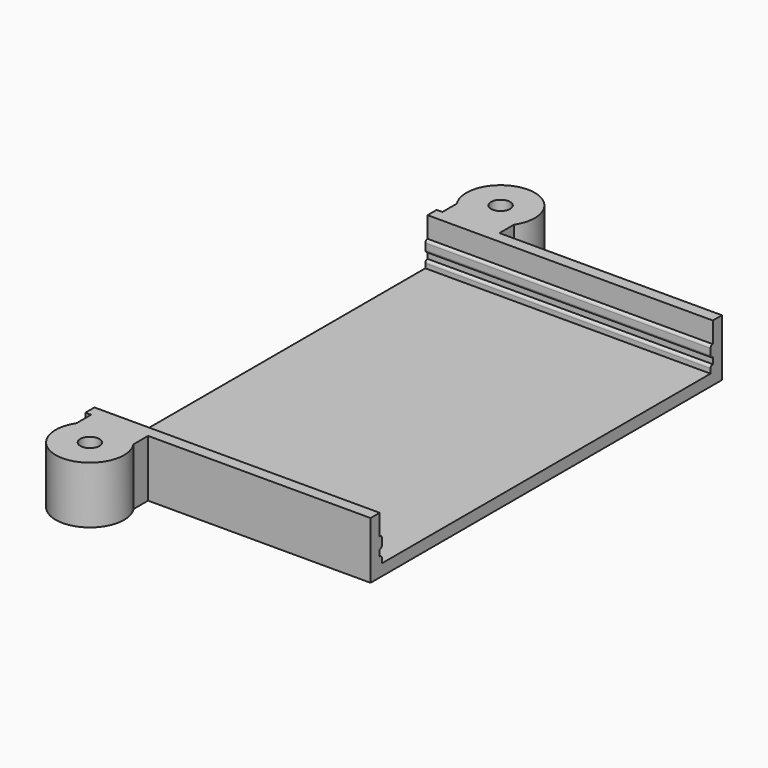
from build123d import *

# Parameters (mm, degrees)
BOX_W         = 200
BOX_H         = 200
BOX_DEPTH     = 20
TUBE_R        = 6
TUBE_R_2      = 1.675
TUBE_DEPTH    = 10
SKETCH003_W   = 73
SKETCH003_H   = 18.85
PAD002_DEPTH  = 10
SKETCH002_W   = 0.5
SKETCH002_H   = 1.25
SKETCH002_H_2 = 2
PAD003_DEPTH  = 100
SKETCH001_W   = 50
SKETCH001_H   = 73
PAD001_DEPTH  = 18.85
SKETCH_W      = 50
SKETCH_H      = 77
PAD_DEPTH     = 22.85
FILLET_R      = 0.45
FILLET001_R   = 1
BOX002_W      = 10
BOX002_H      = 5
BOX002_DEPTH  = 10
TUBE001_R     = 6
TUBE001_R_2   = 1.675
TUBE001_DEPTH = 10
BOX001_W      = 10
BOX001_H      = 5
BOX001_DEPTH  = 10


with BuildPart() as cube:
    # Box → Box (new body)
    with BuildSketch(Plane.XY.offset(10)):
        with Locations((100, 100)):
            Rectangle(BOX_W, BOX_H)
    extrude(amount=BOX_DEPTH)


with BuildPart() as tube:
    # Tube → Tube (new body)
    with BuildSketch(Plane(origin=(6, -4.5, 0), x_dir=(1, 0, 0), z_dir=(0, 0, 1))):
        Circle(TUBE_R)
        Circle(TUBE_R_2, mode=Mode.SUBTRACT)
    extrude(amount=TUBE_DEPTH)


with BuildPart() as inner_volume_track_removal:
    # Sketch003 → Pad002 (new body)
    with BuildSketch(Plane.YZ):
        with Locations((36.5, 9.425)):
            Rectangle(SKETCH003_W, SKETCH003_H)
    extrude(amount=PAD002_DEPTH)

    # Sketch002 → Pad003 (join)
    with BuildSketch(Plane.YZ):
        with Locations((0.25, 0.625)):
            Rectangle(SKETCH002_W, SKETCH002_H)
        with Locations((72.75, 0.625)):
            Rectangle(SKETCH002_W, SKETCH002_H)
        with Locations((0.25, 3.35)):
            Rectangle(SKETCH002_W, SKETCH002_H_2)
        with Locations((72.75, 3.35)):
            Rectangle(SKETCH002_W, SKETCH002_H_2)
    extrude(amount=PAD003_DEPTH)


with BuildPart() as inner_volume_track_removal_1:
    # Body002 placement: moved
    add(inner_volume_track_removal.part.moved(Location((-25, 0, 0))))


with BuildPart() as cut:
    # Sketch001 → Pad001 (new body)
    with BuildSketch(Plane.XY):
        with Locations((25, 36.5)):
            Rectangle(SKETCH001_W, SKETCH001_H)
    extrude(amount=PAD001_DEPTH)

    # Cut: cut Inner Volume Track Removal
    add(inner_volume_track_removal_1.part, mode=Mode.SUBTRACT)


with BuildPart() as cut_1:
    # Cut placement: moved
    add(cut.part.moved(Location((0, 2, 2))))


with BuildPart() as open_top_case:
    # Sketch → Pad (new body)
    with BuildSketch(Plane.XY):
        with Locations((25, 38.5)):
            Rectangle(SKETCH_W, SKETCH_H)
    extrude(amount=PAD_DEPTH)

    # Cut001: cut Cut
    add(cut_1.part, mode=Mode.SUBTRACT)

    # Fillet
    fillet_edges = [open_top_case.edges().sort_by_distance(p)[0] for p in [
        (25, 2.5, 3.25),
        (25, 74.5, 3.25),
        (25, 74.5, 4.35),
        (25, 74.5, 6.35),
        (25, 2.5, 6.35),
        (25, 2.5, 4.35),
    ]]
    fillet(fillet_edges, radius=FILLET_R)


with BuildPart() as open_top_case_1:
    # Fillet placement: moved
    add(open_top_case.part.moved(Location((0, 2, 0))))

    # Fillet001
    fillet001_edges = [open_top_case_1.edges().sort_by_distance(p)[0] for p in [
        (25, 79, 22.85),
        (25, 2, 22.85),
    ]]
    fillet(fillet001_edges, radius=FILLET001_R)

    # Fusion: union Tube
    add(tube.part)

    # Cut002: cut Cube
    add(cube.part, mode=Mode.SUBTRACT)


with BuildPart() as fusion002:
    # Box002 → Box002 (new body)
    with BuildSketch(Plane(origin=(1, -2, 0), x_dir=(1, 0, 0), z_dir=(0, 0, 1))):
        with Locations((5, 2.5)):
            Rectangle(BOX002_W, BOX002_H)
    extrude(amount=BOX002_DEPTH)

    # Fusion002: union Open-top Case
    add(open_top_case_1.part)


with BuildPart() as tube001:
    # Tube001 → Tube001 (new body)
    with BuildSketch(Plane(origin=(6, 85.5, 0), x_dir=(1, 0, 0), z_dir=(0, 0, 1))):
        Circle(TUBE001_R)
        Circle(TUBE001_R_2, mode=Mode.SUBTRACT)
    extrude(amount=TUBE001_DEPTH)


with BuildPart() as dual_support_case:
    # Box001 → Box001 (new body)
    with BuildSketch(Plane(origin=(1, 78, 0), x_dir=(1, 0, 0), z_dir=(0, 0, 1))):
        with Locations((5, 2.5)):
            Rectangle(BOX001_W, BOX001_H)
    extrude(amount=BOX001_DEPTH)

    # Fusion001: union Tube001
    add(tube001.part)

    # Fusion003: union Fusion002
    add(fusion002.part)


solid = dual_support_case.part
